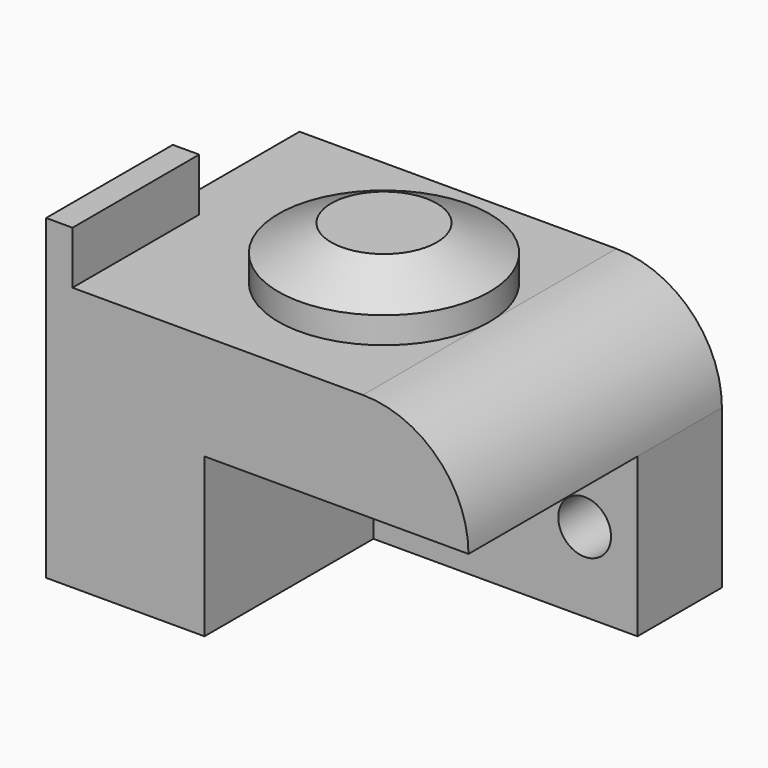
from build123d import *

# Parameters (mm, degrees)
F0_W      = 80
F0_H      = 60
F1_DEPTH  = 50
F2_R      = 20
F3_W      = 5
F3_H      = 10
F4_DEPTH  = 30
F6_W      = 50
F6_H      = 30
F7_DEPTH  = 40
F8_R      = 5
F9_DEPTH  = 10
F10_R     = 20
F11_DEPTH = 10
F12_SIZE2 = 5
F12_SIZE  = 10


with BuildPart() as f1:
    # F0 (on Top) → F1 (new body)
    with BuildSketch(Plane.XY):
        with Locations((40, 30)):
            Rectangle(F0_W, F0_H)
    extrude(amount=F1_DEPTH)

    # F2
    f2_edges = [f1.edges().sort_by_distance(p)[0] for p in [
        (80, 30, 50),
    ]]
    fillet(f2_edges, radius=F2_R)


with BuildPart() as f4:
    # F3 (on face) → F4 (new body)
    with BuildSketch(Plane.XZ):
        with Locations((2.5, 55)):
            Rectangle(F3_W, F3_H)
    extrude(amount=-F4_DEPTH)


with BuildPart() as f1_1:
    add(f1.part)

    # F5: union F4
    add(f4.part)

    # F6 (on face) → F7 (cut)
    with BuildSketch(Plane.XZ):
        with Locations((55, 15)):
            Rectangle(F6_W, F6_H)
    extrude(amount=-F7_DEPTH, mode=Mode.SUBTRACT)

    # F8 (on face) → F9 (cut)
    with BuildSketch(Plane.XZ.offset(-40)):
        with Locations((70, 15)):
            Circle(F8_R)
    extrude(amount=-F9_DEPTH, mode=Mode.SUBTRACT)

    # F10 (on face) → F11 (join)
    with BuildSketch(Plane.XY.offset(50)):
        with Locations((40, 30)):
            Circle(F10_R)
    extrude(amount=F11_DEPTH)

    # F12
    f12_edges = [f1_1.edges().sort_by_distance(p)[0] for p in [
        (20, 30, 60),
    ]]
    f12_side = f1_1.faces().sort_by_distance((40, 30, 60))[0]
    chamfer(f12_edges, length=F12_SIZE, length2=F12_SIZE2, reference=f12_side)


solid = f1_1.part
